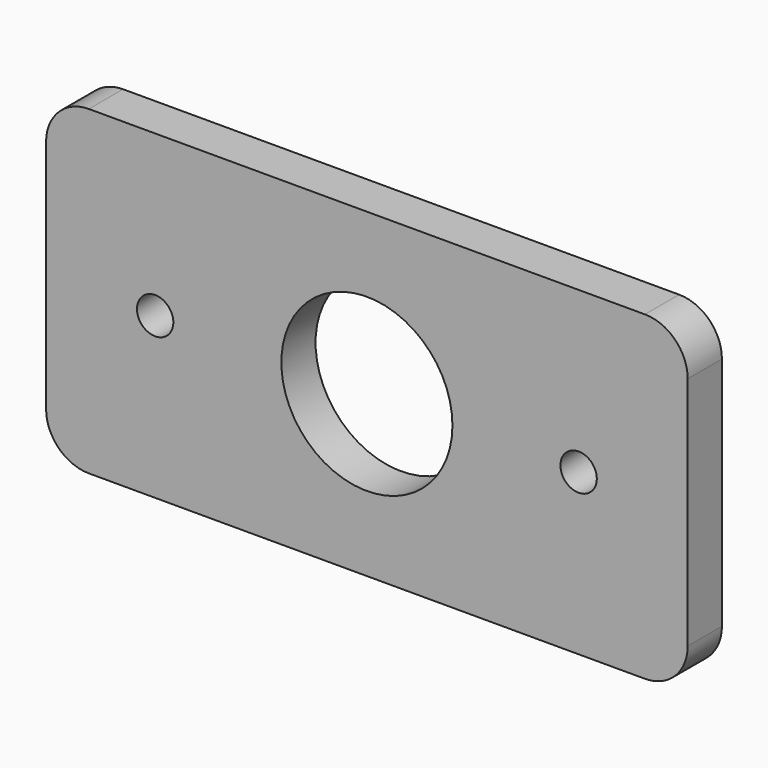
from build123d import *

# Parameters (mm, degrees)
F0_W     = 150
F0_H     = 75
F0_R     = 20
F1_DEPTH = 5
F2_R     = 10
F4_D     = 8.5
F4_DEPTH = 24.5
F4_TIP   = 2.5536576309


with BuildPart() as f1:
    # F0 (on Front) → F1 (new body, symmetric)
    with BuildSketch(Plane.XZ):
        Rectangle(F0_W, F0_H)
        Circle(F0_R, mode=Mode.SUBTRACT)
    extrude(amount=F1_DEPTH, both=True)

    # F2
    f2_edges = [f1.edges().sort_by_distance(p)[0] for p in [
        (-75, 0, 37.5),
        (75, 0, 37.5),
        (75, 0, -37.5),
        (-75, 0, -37.5),
    ]]
    fillet(f2_edges, radius=F2_R)

    # F4
    with Locations(Plane.XZ.offset(5)):
        with Locations((-49.5, 0), (49.5, 0)):
            Hole(F4_D / 2, depth=F4_DEPTH)
            with Locations((0, 0, -(F4_DEPTH + F4_TIP / 2))):  # 118° drill point
                Cone(0, F4_D / 2, F4_TIP, mode=Mode.SUBTRACT)


solid = f1.part
